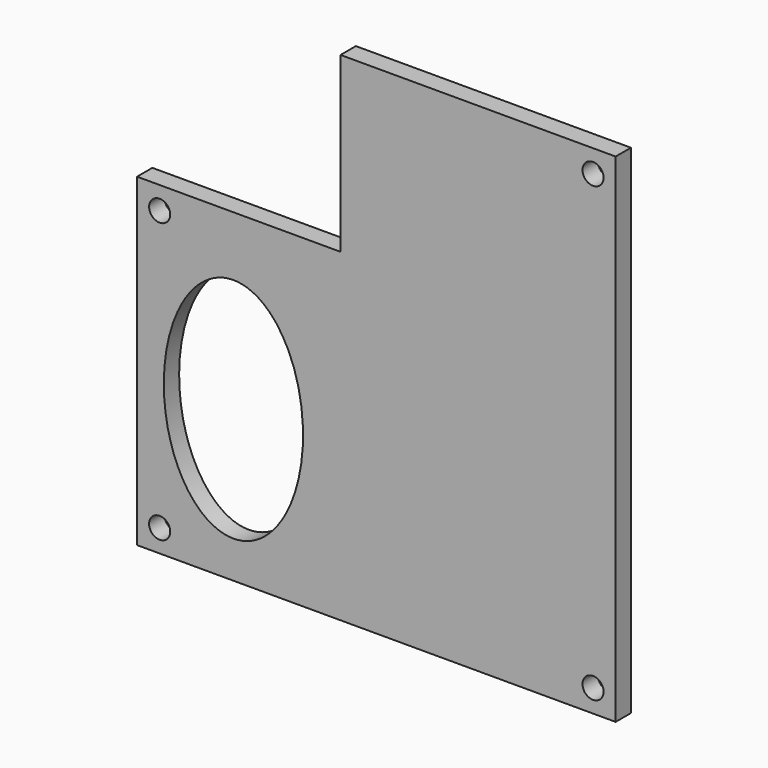
from build123d import *

# Parameters (mm, degrees)
F0_R     = 1.4
F1_DEPTH = 2.54


with BuildPart() as f1:
    # F0 (on Front) → F1 (new body)
    with BuildSketch(Plane.XZ):
        Polygon((-7.853946, 19.075462), (-44.353946, 19.075462), (-44.353946, -3.924538), (-71.353946, -3.924538), (-71.353946, -46.964538), (-7.853946, -46.964538), align=None)
        with Locations((-68.353946, -43.964538)):
            Circle(F0_R, mode=Mode.SUBTRACT)
        with BuildLine():
            add(Edge.make_bspline(
                [(-58.564875, -11.842106), (-74.562795, -11.842106), (-66.563835, -34.490134), (-58.564875, -57.138162), (-50.565916, -34.490134), (-42.566956, -11.842106), (-58.564875, -11.842106)],
                knots=[0, 0, 0, 2.094395, 2.094395, 4.18879, 4.18879, 6.283185, 6.283185, 6.283185], degree=2, weights=[1, 0.5, 1, 0.5, 1, 0.5, 1]))
        make_face(mode=Mode.SUBTRACT)
        with Locations((-10.853946, -43.964538)):
            Circle(F0_R, mode=Mode.SUBTRACT)
        with Locations((-68.353946, -6.924538)):
            Circle(F0_R, mode=Mode.SUBTRACT)
        with Locations((-10.853946, 16.075462)):
            Circle(F0_R, mode=Mode.SUBTRACT)
    extrude(amount=F1_DEPTH)


solid = f1.part
